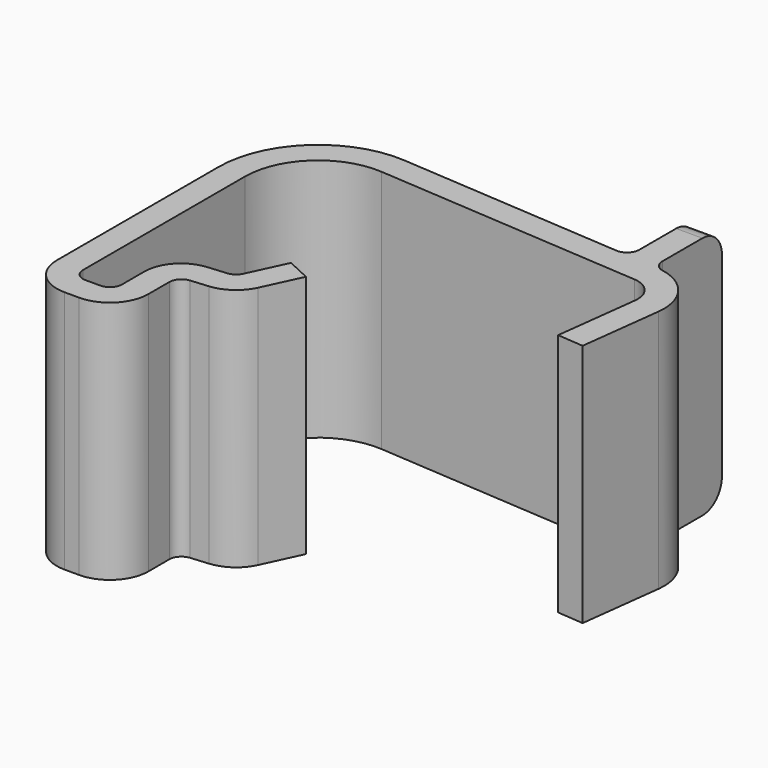
from build123d import *

# Parameters (mm, degrees)
F1_DEPTH = 20
F2_R     = 2
F3_R     = 1


with BuildPart() as f1:
    # F0 (on Top) → F1 (new body)
    with BuildSketch(Plane.XY):
        with BuildLine():
            ThreePointArc((1, 0), (0.2928932188, 0.2928932188), (0, 1))
            Line((0, 1), (0, 17.5657877399))
            ThreePointArc((0, 17.5657877399), (1.9080098396, 21.9539099496), (6.4185388425, 23.5511720414))
            Line((6.4185388425, 23.5511720414), (28.3631797552, 22.0166532631))
            ThreePointArc((28.3631797552, 22.0166532631), (29.7669159745, 21.2936816032), (30.208759111, 19.7777864758))
            Line((30.208759111, 19.7777864758), (29.3687820043, 12.9367219271))
            Line((29.3687820043, 12.9367219271), (31.5132220522, 12.7599401181))
            Line((31.5132220522, 12.7599401181), (32.342733337, 19.5157673875))
            ThreePointArc((32.342733337, 19.5157673875), (31.4259088288, 22.6612497768), (28.5131561738, 24.1614159712))
            Line((28.5131561738, 24.1614159712), (28.1860586203, 24.1842888603))
            Line((28.1860586203, 24.1842888603), (26.0360586203, 24.1842888603))
            Line((26.0360586203, 24.1842888603), (26.0360586203, 24.334631506))
            Line((26.0360586203, 24.334631506), (6.568515261, 25.6959347495))
            ThreePointArc((6.568515261, 25.6959347495), (0.4417133655, 23.526320408), (-2.15, 17.5657877399))
            Line((-2.15, 17.5657877399), (-2.15, 1))
            ThreePointArc((-2.15, 1), (-1.2273863607, -1.2273863607), (1, -2.15))
            Line((1, -2.15), (2.2, -2.15))
            ThreePointArc((2.2, -2.15), (4.4273863607, -1.2273863607), (5.35, 1))
            Line((5.35, 1), (5.35, 3.1444985108))
            ThreePointArc((5.35, 3.1444985108), (5.6127226632, 3.8200887184), (6.2628442573, 4.1406932089))
            Line((6.2628442573, 4.1406932089), (7.6935855904, 4.2658668559))
            ThreePointArc((7.6935855904, 4.2658668559), (9.2258107753, 4.8235512154), (10.27391453, 6.0726326305))
            Line((10.27391453, 6.0726326305), (11.7203888097, 9.1746067338))
            Line((11.7203888097, 9.1746067338), (9.7718270676, 10.0832359965))
            Line((9.7718270676, 10.0832359965), (8.3253527878, 6.9812618932))
            ThreePointArc((8.3253527878, 6.9812618932), (7.9926214371, 6.5847281106), (7.5062007435, 6.4076854568))
            Line((7.5062007435, 6.4076854568), (5.9385327718, 6.2705322811))
            ThreePointArc((5.9385327718, 6.2705322811), (3.9881679896, 5.3087188097), (3.2, 3.2819481869))
            Line((3.2, 3.2819481869), (3.2, 1))
            ThreePointArc((3.2, 1), (2.9071067812, 0.2928932188), (2.2, 0))
            Line((2.2, 0), (1, 0))
        make_face()
        Polygon((26.0360586203, 24.1842888603), (28.1860586203, 24.1842888603), (26.0360586203, 24.334631506), align=None)
        Polygon((26.0360586203, 24.334631506), (28.1860586203, 24.1842888603), (28.1860586203, 31.1842888603), (26.0360586203, 31.1842888603), align=None)
    extrude(amount=F1_DEPTH)

    # F2
    f2_edges = [f1.edges().sort_by_distance(p)[0] for p in [
        (27.111059, 31.184289, 20),
        (27.111059, 31.184289, 0),
    ]]
    fillet(f2_edges, radius=F2_R)

    # F3
    f3_edges = [f1.edges().sort_by_distance(p)[0] for p in [
        (26.036059, 24.334632, 10),
        (28.186059, 24.184289, 10),
    ]]
    fillet(f3_edges, radius=F3_R)


solid = f1.part
